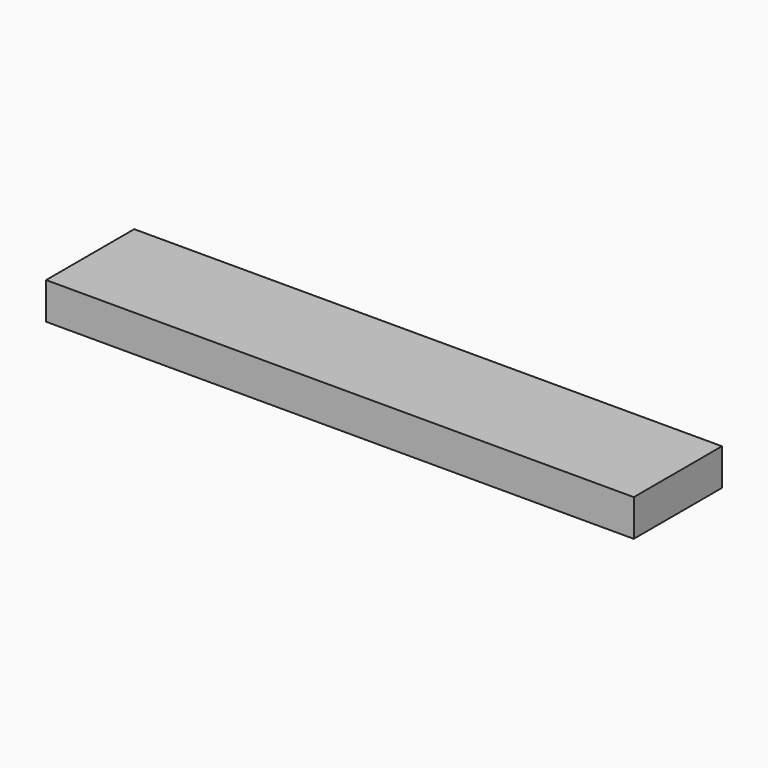
from build123d import *

# Parameters (mm, degrees)
SKETCH_W  = 80
SKETCH_H  = 15
PAD_DEPTH = 5


with BuildPart() as part:
    # Sketch → Pad (new body)
    with BuildSketch(Plane.XY):
        with Locations((18.288706, -0.945974)):
            Rectangle(SKETCH_W, SKETCH_H)
    extrude(amount=PAD_DEPTH)


solid = part.part
